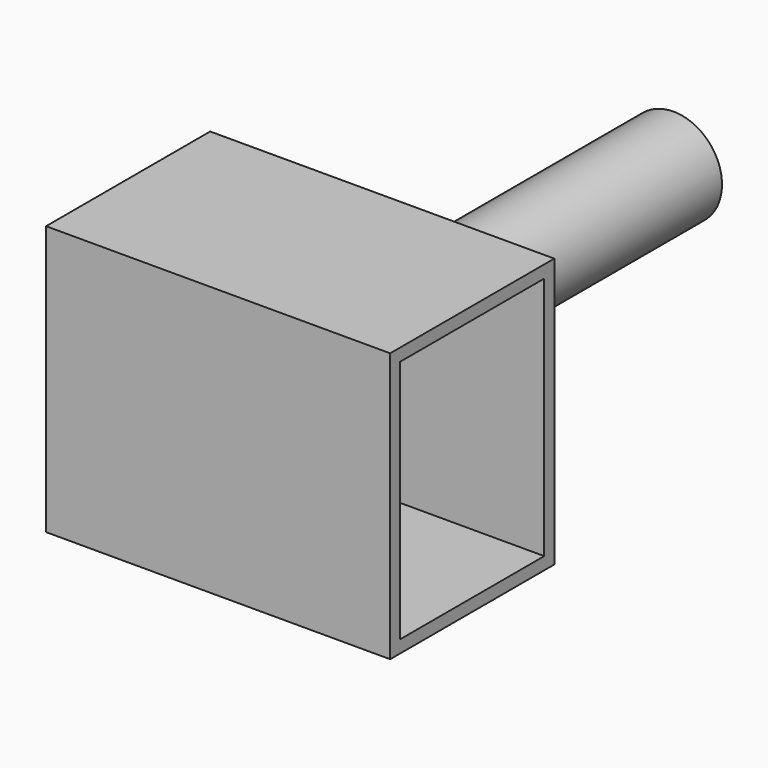
from build123d import *

# Parameters (mm, degrees)
F0_W     = 69.888253
F0_H     = 54.705635
F1_DEPTH = 41.656
F2_T     = -2.54
F3_R     = 9.833618
F4_DEPTH = 75.184


with BuildPart() as f1:
    # F0 (on Front) → F1 (new body)
    with BuildSketch(Plane.XZ):
        with Locations((0.963976, -1.56646)):
            Rectangle(F0_W, F0_H)
    extrude(amount=F1_DEPTH)

    # F2
    f2_openings = [f1.faces().sort_by_distance(p)[0] for p in [
        (35.908103, -20.828, -1.56646),
    ]]
    offset(amount=F2_T, openings=f2_openings)

    # F3 (on face) → F4 (join)
    with BuildSketch(Plane(origin=(0, 0, 0), x_dir=(-1, 0, 0), z_dir=(0, 1, 0))):
        Circle(F3_R)
    extrude(amount=F4_DEPTH)


solid = f1.part
